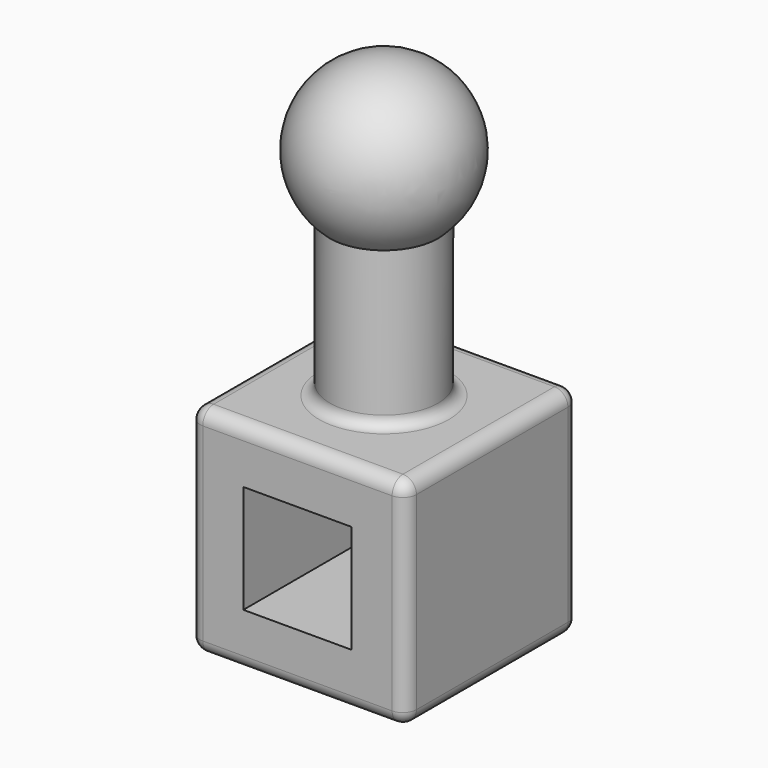
from build123d import *

# Parameters (mm, degrees)
F0_W     = 101.6
F0_H     = 101.6
F1_DEPTH = 101.6
F2_R     = 25.4
F3_DEPTH = 101.6
F6_W     = 50.8
F6_H     = 50.8
F7_DEPTH = 101.6
F8_R     = 6.35
F9_R     = 5.08


with BuildPart() as f1:
    # F0 (on Top) → F1 (new body)
    with BuildSketch(Plane.XY):
        Rectangle(F0_W, F0_H)
    extrude(amount=F1_DEPTH)

    # F2 (on face) → F3 (join)
    with BuildSketch(Plane.XY.offset(101.6)):
        Circle(F2_R)
    extrude(amount=F3_DEPTH)

    # F4 (on face) → F5 (revolve)
    with BuildSketch(Plane.XY.offset(203.2)):
        with BuildLine():
            Line((0, -25.4), (0, -38.1))
            ThreePointArc((0, -38.1), (38.1, 0), (0, 38.1))
            Line((0, 38.1), (0, 25.4))
            ThreePointArc((0, 25.4), (17.9605122421, 17.9605122421), (25.4, 0))
            ThreePointArc((25.4, 0), (17.9605122421, -17.9605122421), (0, -25.4))
        make_face()
        with BuildLine():
            Line((0, 25.4), (0, -25.4))
            ThreePointArc((0, -25.4), (17.9605122421, -17.9605122421), (25.4, 0))
            ThreePointArc((25.4, 0), (17.9605122421, 17.9605122421), (0, 25.4))
        make_face()
    revolve(axis=Axis((0, 0, 203.2), (0, -1, 0)))

    # F6 (on face) → F7 (cut)
    with BuildSketch(Plane.XZ.offset(50.8)):
        with Locations((0, 50.8)):
            Rectangle(F6_W, F6_H)
    extrude(amount=-F7_DEPTH, mode=Mode.SUBTRACT)

    # F8
    f8_edges = [f1.edges().sort_by_distance(p)[0] for p in [
        (50.8, 0, 101.6),
        (0, -50.8, 101.6),
        (-50.8, 0, 101.6),
        (0, 50.8, 101.6),
        (50.8, 0, 0),
        (50.8, 50.8, 50.8),
        (50.8, -50.8, 50.8),
        (-50.8, -50.8, 50.8),
        (0, -50.8, 0),
        (-50.8, 0, 0),
        (0, 50.8, 0),
        (-50.8, 50.8, 50.8),
    ]]
    fillet(f8_edges, radius=F8_R)

    # F9
    f9_edges = [f1.edges().sort_by_distance(p)[0] for p in [
        (-25.4, 0, 101.6),
    ]]
    fillet(f9_edges, radius=F9_R)


solid = f1.part
